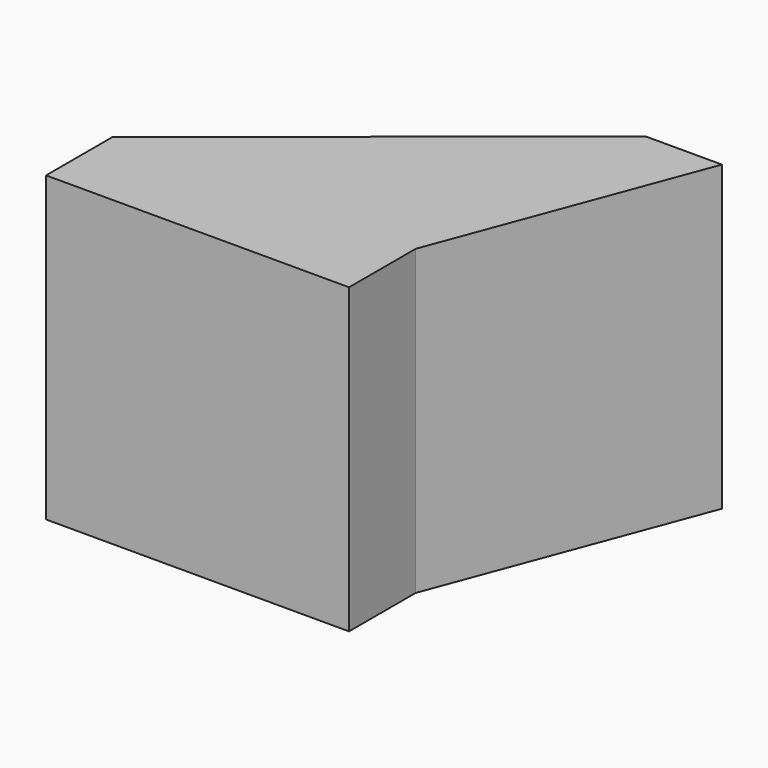
from build123d import *

# Parameters (mm, degrees)
F1_DEPTH  = 4
F1_FACE_W = 4
F1_FACE_H = 4
F2_DEPTH  = 1.1


with BuildPart() as f1:
    # F0 (on Top) → F1 (new body)
    with BuildSketch(Plane.XY):
        Polygon((4.29064, 3.440989), (0, 0), (4, 0), (5.29064, 3.440989), align=None)
    extrude(amount=F1_DEPTH)

    # F1_face (on face) → F2 (join)
    with BuildSketch(Plane(origin=(2, 0, 2), x_dir=(1, 0, 0), z_dir=(0, -1, 0))):
        Rectangle(F1_FACE_W, F1_FACE_H)
    extrude(amount=F2_DEPTH)


solid = f1.part
